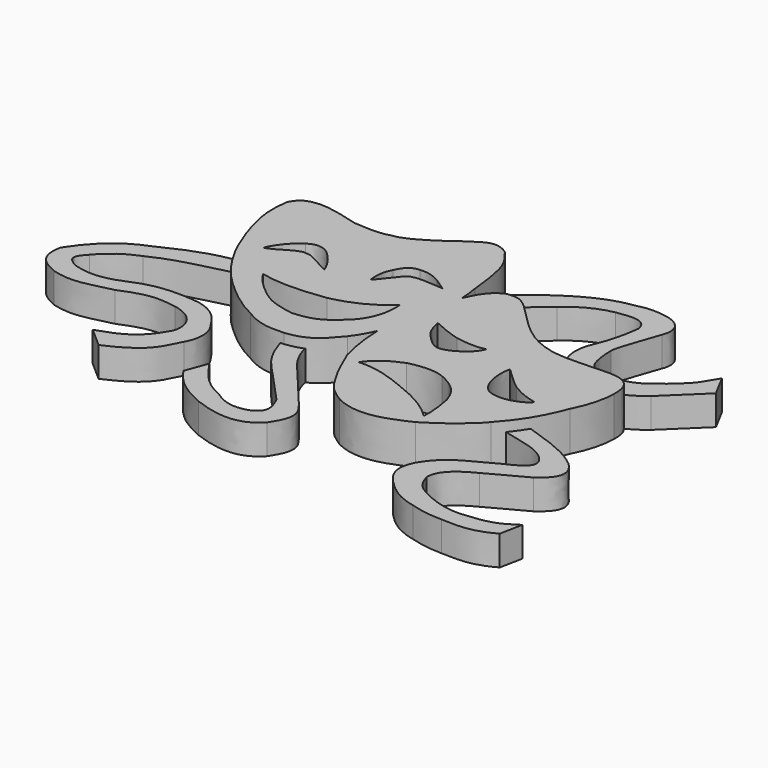
from build123d import *

# Parameters (mm, degrees)
F4_DEPTH  = 8
F5_DEPTH  = 25
F6_DEPTH  = 8
F7_DEPTH  = 25
F12_DEPTH = 6
F13_DEPTH = 6
F14_DEPTH = 6
F15_DEPTH = 6


with BuildPart() as f4:
    # F0 (on Top) → F4 (new body)
    with BuildSketch(Plane.XY):
        with BuildLine():
            add(Edge.make_bspline(
                [(-36.353413, 12.887898), (-34.226887, 12.887898), (-32.0509, 12.343901), (-28.292375, 11.305363)],
                knots=[0, 0, 0, 0, 8.214911, 8.214911, 8.214911, 8.214911], degree=3))
            add(Edge.make_bspline(
                [(-36.353413, 12.887898), (-37.639227, 12.690082), (-39.815206, 12.937352), (-41.051559, 10.118461)],
                knots=[0, 0, 0, 0, 5.453655, 5.453655, 5.453655, 5.453655], degree=3))
            add(Edge.make_bspline(
                [(-40.655926, 2.255242), (-40.853746, 2.848694), (-41.645013, 5.717038), (-41.051559, 10.118461)],
                knots=[0, 0, 0, 0, 7.873166, 7.873166, 7.873166, 7.873166], degree=3))
            add(Edge.make_bspline(
                [(-36.847953, -8.080687), (-37.58977, -6.695969), (-39.518487, -2.541816), (-40.655926, 2.255242)],
                knots=[0, 0, 0, 0, 11.015085, 11.015085, 11.015085, 11.015085], degree=3))
            add(Edge.make_bspline(
                [(-30.270543, -16.834082), (-32.001447, -15.301001), (-34.27634, -12.82829), (-36.847953, -8.080687)],
                knots=[0, 0, 0, 0, 10.949166, 10.949166, 10.949166, 10.949166], degree=3))
            add(Edge.make_bspline(
                [(-21.863328, -22.91695), (-24.385499, -21.730049), (-27.154934, -19.75188), (-30.270543, -16.834082)],
                knots=[0, 0, 0, 0, 10.37702, 10.37702, 10.37702, 10.37702], degree=3))
            add(Edge.make_bspline(
                [(-13.55502, -24.845663), (-16.472824, -24.994025), (-18.797172, -24.845663), (-21.863328, -22.91695)],
                knots=[0, 0, 0, 0, 8.529239, 8.529239, 8.529239, 8.529239], degree=3))
            add(Edge.make_bspline(
                [(-5.048897, -19.554064), (-7.175434, -22.076229), (-8.807423, -24.351122), (-13.55502, -24.845663)],
                knots=[0, 0, 0, 0, 10.017742, 10.017742, 10.017742, 10.017742], degree=3))
            add(Edge.make_bspline(
                [(-0.598017, -9.663222), (-1.686017, -13.372288), (-2.724555, -16.537357), (-5.048897, -19.554064)],
                knots=[0, 0, 0, 0, 10.846155, 10.846155, 10.846155, 10.846155], degree=3))
            add(Edge.make_bspline(
                [(0.489975, 5.717037), (1.33069, 0.623252), (1.083419, -4.470531), (-0.598017, -9.663222)],
                knots=[0, 0, 0, 0, 15.418693, 15.418693, 15.418693, 15.418693], degree=3))
            add(Edge.make_bspline(
                [(-3.614725, 18.32786), (-1.043113, 15.162789), (-0.400208, 14.173705), (0.489975, 5.717037)],
                knots=[0, 0, 0, 0, 13.26203, 13.26203, 13.26203, 13.26203], degree=3))
            add(Edge.make_bspline(
                [(-10.983402, 17.140958), (-8.807424, 18.426768), (-6.829255, 20.751115), (-3.614725, 18.32786)],
                knots=[0, 0, 0, 0, 7.463654, 7.463654, 7.463654, 7.463654], degree=3))
            add(Edge.make_bspline(
                [(-21.022612, 11.602088), (-19.04445, 11.799905), (-15.928829, 13.431893), (-10.983402, 17.140958)],
                knots=[0, 0, 0, 0, 11.465811, 11.465811, 11.465811, 11.465811], degree=3))
            add(Edge.make_bspline(
                [(-28.292375, 11.305363), (-25.968034, 11.157), (-23.49533, 10.860275), (-21.022612, 11.602088)],
                knots=[0, 0, 0, 0, 7.275816, 7.275816, 7.275816, 7.275816], degree=3))
        make_face()
    extrude(amount=F4_DEPTH)

    # F1 (on Top) → F5 (cut)
    with BuildSketch(Plane.XY):
        with BuildLine():
            add(Edge.make_bspline(
                [(-34.225449, -4.194234), (-32.897219, -1.184429), (-30.436402, 0.784399), (-29.890651, 0.987034)],
                knots=[0, 0, 0, 0, 6.755443, 6.755443, 6.755443, 6.755443], degree=3))
            add(Edge.make_bspline(
                [(-27.748821, -1.506653), (-29.467111, -1.110125), (-32.324456, -3.916068), (-34.225449, -4.194234)],
                knots=[0, 0, 0, 0, 7.012118, 7.012118, 7.012118, 7.012118], degree=3))
            add(Edge.make_bspline(
                [(-22.065248, -4.106116), (-24.44442, -2.96059), (-26.559237, -1.330419), (-27.748821, -1.506653)],
                knots=[0, 0, 0, 0, 6.249817, 6.249817, 6.249817, 6.249817], degree=3))
            add(Edge.make_bspline(
                [(-25.105298, 0.387871), (-23.695422, -0.889832), (-22.461779, -2.784355), (-22.065248, -4.106116)],
                knots=[0, 0, 0, 0, 5.425663, 5.425663, 5.425663, 5.425663], degree=3))
            add(Edge.make_bspline(
                [(-29.890651, 0.987034), (-27.660705, 2.634864), (-25.545888, 0.960633), (-25.105298, 0.387871)],
                knots=[0, 0, 0, 0, 4.822717, 4.822717, 4.822717, 4.822717], degree=3))
        make_face()
        with BuildLine():
            add(Edge.make_bspline(
                [(-14.222801, -2.123474), (-14.443098, -1.28636), (-14.443098, 0.960634), (-13.517861, 2.546747)],
                knots=[0, 0, 0, 0, 4.723124, 4.723124, 4.723124, 4.723124], degree=3))
            add(Edge.make_bspline(
                [(-9.816932, 2.546747), (-11.094637, 2.41457), (-13.165396, -1.506653), (-14.222801, -2.123474)],
                knots=[0, 0, 0, 0, 6.420487, 6.420487, 6.420487, 6.420487], degree=3))
            add(Edge.make_bspline(
                [(-3.560597, 2.546747), (-5.646042, 2.546747), (-7.922412, 3.119509), (-9.816932, 2.546747)],
                knots=[0, 0, 0, 0, 6.256334, 6.256334, 6.256334, 6.256334], degree=3))
            add(Edge.make_bspline(
                [(-5.939767, 4.176918), (-5.058596, 3.604155), (-4.353654, 3.090137), (-3.560597, 2.546747)],
                knots=[0, 0, 0, 0, 2.884079, 2.884079, 2.884079, 2.884079], degree=3))
            add(Edge.make_bspline(
                [(-10.257519, 5.234327), (-8.803586, 5.45462), (-7.217472, 4.925916), (-5.939767, 4.176918)],
                knots=[0, 0, 0, 0, 4.445345, 4.445345, 4.445345, 4.445345], degree=3))
            add(Edge.make_bspline(
                [(-13.517861, 2.546747), (-12.504515, 4.925916), (-11.182754, 5.234326), (-10.257519, 5.234327)],
                knots=[0, 0, 0, 0, 4.225271, 4.225271, 4.225271, 4.225271], degree=3))
        make_face()
        with BuildLine():
            add(Edge.make_bspline(
                [(-28.629998, -11.287683), (-24.31225, -12.212915), (-20.214787, -11.948563), (-15.720798, -11.331741)],
                knots=[0, 0, 0, 0, 12.909275, 12.909275, 12.909275, 12.909275], degree=3))
            add(Edge.make_bspline(
                [(-24.18007, -16.001962), (-26.471121, -14.151498), (-27.836941, -12.697561), (-28.629998, -11.287683)],
                knots=[0, 0, 0, 0, 6.482769, 6.482769, 6.482769, 6.482769], degree=3))
            add(Edge.make_bspline(
                [(-16.866326, -18.821718), (-21.272196, -18.072721), (-22.329608, -17.36778), (-24.18007, -16.001962)],
                knots=[0, 0, 0, 0, 7.838486, 7.838486, 7.838486, 7.838486], degree=3))
            add(Edge.make_bspline(
                [(-8.274878, -14.812378), (-11.35899, -17.852427), (-13.07728, -18.557366), (-16.866326, -18.821718)],
                knots=[0, 0, 0, 0, 9.480917, 9.480917, 9.480917, 9.480917], degree=3))
            add(Edge.make_bspline(
                [(-5.23483, -6.132815), (-4.882364, -11.199565), (-7.30559, -13.975263), (-8.274878, -14.812378)],
                knots=[0, 0, 0, 0, 9.196559, 9.196559, 9.196559, 9.196559], degree=3))
            add(Edge.make_bspline(
                [(-15.720798, -11.331741), (-10.786228, -10.230274), (-8.142706, -8.511985), (-5.23483, -6.132815)],
                knots=[0, 0, 0, 0, 11.704031, 11.704031, 11.704031, 11.704031], degree=3))
        make_face()
    extrude(amount=F5_DEPTH, mode=Mode.SUBTRACT)

    # F2 (on Top) → F6 (join)
    with BuildSketch(Plane.XY):
        with BuildLine():
            add(Edge.make_bspline(
                [(10.116547, 5.907975), (8.754268, 7.060659), (7.863554, 7.741793), (5.505784, 7.375029)],
                knots=[0, 0, 0, 0, 4.838531, 4.838531, 4.838531, 4.838531], degree=3))
            add(Edge.make_bspline(
                [(5.505784, 7.375029), (2.519274, 6.22234), (1.314202, 2.76428), (0.421101, 0.666883)],
                knots=[0, 0, 0, 0, 8.417435, 8.417435, 8.417435, 8.417435], degree=3))
            add(Edge.make_bspline(
                [(0.421101, 0.666883), (-1.567518, -3.261134), (-2.091467, -9.076969), (-2.354422, -11.378889)],
                knots=[0, 0, 0, 0, 12.361398, 12.361398, 12.361398, 12.361398], degree=3))
            add(Edge.make_bspline(
                [(-2.354422, -11.378889), (-2.824995, -16.359862), (-2.091466, -20.761034), (-1.133192, -24.423851)],
                knots=[0, 0, 0, 0, 13.102001, 13.102001, 13.102001, 13.102001], degree=3))
            add(Edge.make_bspline(
                [(-1.133192, -24.423851), (-0.004479, -26.792298), (0.633069, -28.829848), (2.252947, -31.529192)],
                knots=[0, 0, 0, 0, 7.870947, 7.870947, 7.870947, 7.870947], degree=3))
            add(Edge.make_bspline(
                [(2.252947, -31.529192), (4.195923, -35.117239), (5.401005, -35.693586), (7.359911, -37.024729)],
                knots=[0, 0, 0, 0, 7.502134, 7.502134, 7.502134, 7.502134], degree=3))
            add(Edge.make_bspline(
                [(7.359911, -37.024729), (13.312635, -40.094756), (18.971287, -36.793876), (21.591032, -35.693586)],
                knots=[0, 0, 0, 0, 14.293241, 14.293241, 14.293241, 14.293241], degree=3))
            add(Edge.make_bspline(
                [(21.591032, -35.693586), (26.201783, -33.021443), (30.340979, -29.14422), (30.840838, -28.254075)],
                knots=[0, 0, 0, 0, 11.870351, 11.870351, 11.870351, 11.870351], degree=3))
            add(Edge.make_bspline(
                [(30.840838, -28.254075), (35.004124, -23.852337), (36.680762, -19.660745), (37.72866, -16.9886)],
                knots=[0, 0, 0, 0, 13.20428, 13.20428, 13.20428, 13.20428], degree=3))
            add(Edge.make_bspline(
                [(37.72866, -16.9886), (39.195716, -14.211675), (39.981641, -11.067981), (39.981645, -8.657809)],
                knots=[0, 0, 0, 0, 8.630064, 8.630064, 8.630064, 8.630064], degree=3))
            add(Edge.make_bspline(
                [(39.981645, -8.657809), (40.243611, -3.156349), (35.790041, -3.732692), (34.846932, -3.575508)],
                knots=[0, 0, 0, 0, 7.224615, 7.224615, 7.224615, 7.224615], degree=3))
            add(Edge.make_bspline(
                [(34.846932, -3.575508), (31.039568, -3.575508), (27.35446, -4.099457), (23.739221, -3.575508)],
                knots=[0, 0, 0, 0, 11.107711, 11.107711, 11.107711, 11.107711], degree=3))
            add(Edge.make_bspline(
                [(23.739221, -3.575508), (19.33804, -2.632399), (17.189849, -0.850972), (14.936878, 1.140038)],
                knots=[0, 0, 0, 0, 9.98587, 9.98587, 9.98587, 9.98587], degree=3))
            add(Edge.make_bspline(
                [(14.936878, 1.140038), (13.330101, 2.729351), (11.723324, 4.318663), (10.116547, 5.907975)],
                knots=[0, 0, 0, 0, 6.78003, 6.78003, 6.78003, 6.78003], degree=3))
        make_face()
    extrude(amount=F6_DEPTH)

    # F3 (on Top) → F7 (cut)
    with BuildSketch(Plane.XY):
        with BuildLine():
            add(Edge.make_bspline(
                [(3.222382, -7.111744), (4.55313, -7.735532), (7.089868, -8.816765), (8.836474, -9.232623)],
                knots=[0, 0, 0, 0, 6.001346, 6.001346, 6.001346, 6.001346], degree=3))
            add(Edge.make_bspline(
                [(6.507666, -12.68425), (4.222151, -10.555603), (3.855848, -9.833884), (3.222382, -7.111744)],
                knots=[0, 0, 0, 0, 6.468842, 6.468842, 6.468842, 6.468842], degree=3))
            add(Edge.make_bspline(
                [(10.739904, -13.204032), (9.335505, -13.68231), (8.386593, -14.332594), (6.507666, -12.68425)],
                knots=[0, 0, 0, 0, 4.264037, 4.264037, 4.264037, 4.264037], degree=3))
            add(Edge.make_bspline(
                [(14.796356, -9.357397), (14.40898, -10.563371), (13.20299, -11.97729), (10.739904, -13.204032)],
                knots=[0, 0, 0, 0, 5.590295, 5.590295, 5.590295, 5.590295], degree=3))
            add(Edge.make_bspline(
                [(8.836474, -9.232623), (11.290041, -9.648481), (12.828717, -9.773239), (14.796356, -9.357397)],
                knots=[0, 0, 0, 0, 5.961187, 5.961187, 5.961187, 5.961187], degree=3))
        make_face()
        with BuildLine():
            add(Edge.make_bspline(
                [(27.035646, -20.827362), (29.130377, -20.62715), (31.001741, -19.83702), (32.001302, -18.65926)],
                knots=[0, 0, 0, 0, 5.418339, 5.418339, 5.418339, 5.418339], degree=3))
            add(Edge.make_bspline(
                [(32.001302, -18.65926), (29.587822, -18.131999), (28.09073, -17.425038), (26.546076, -16.421217)],
                knots=[0, 0, 0, 0, 5.896467, 5.896467, 5.896467, 5.896467], degree=3))
            add(Edge.make_bspline(
                [(26.546076, -16.421217), (24.847033, -15.220988), (23.446324, -13.633775), (21.977609, -12.351563)],
                knots=[0, 0, 0, 0, 6.118249, 6.118249, 6.118249, 6.118249], degree=3))
            add(Edge.make_bspline(
                [(21.977609, -12.351563), (21.399427, -14.582111), (21.977609, -17.549796), (22.76938, -18.799137)],
                knots=[0, 0, 0, 0, 6.496008, 6.496008, 6.496008, 6.496008], degree=3))
            add(Edge.make_bspline(
                [(22.76938, -18.799137), (23.807386, -20.710323), (25.429236, -20.793494), (27.035646, -20.827362)],
                knots=[0, 0, 0, 0, 4.723846, 4.723846, 4.723846, 4.723846], degree=3))
        make_face()
        with BuildLine():
            add(Edge.make_bspline(
                [(1.857675, -25.303448), (3.887758, -22.456927), (6.424495, -21.458866), (7.942352, -20.827362)],
                knots=[0, 0, 0, 0, 7.553716, 7.553716, 7.553716, 7.553716], degree=3))
            add(Edge.make_bspline(
                [(11.928865, -27.611427), (8.420617, -26.116485), (5.17692, -25.118424), (1.857675, -25.303448)],
                knots=[0, 0, 0, 0, 10.332261, 10.332261, 10.332261, 10.332261], degree=3))
            add(Edge.make_bspline(
                [(21.300664, -33.206534), (18.401224, -30.358242), (15.157527, -28.861152), (11.928865, -27.611427)],
                knots=[0, 0, 0, 0, 10.914937, 10.914937, 10.914937, 10.914937], degree=3))
            add(Edge.make_bspline(
                [(20.688446, -26.657101), (21.436993, -30.441415), (21.35382, -31.855334), (21.300664, -33.206534)],
                knots=[0, 0, 0, 0, 6.577985, 6.577985, 6.577985, 6.577985], degree=3))
            add(Edge.make_bspline(
                [(15.074355, -20.835079), (19.232942, -22.664858), (20.023072, -24.785737), (20.688446, -26.657101)],
                knots=[0, 0, 0, 0, 8.08789, 8.08789, 8.08789, 8.08789], degree=3))
            add(Edge.make_bspline(
                [(7.942352, -20.827362), (11.331627, -19.961776), (13.647334, -20.260595), (15.074355, -20.835079)],
                knots=[0, 0, 0, 0, 7.132007, 7.132007, 7.132007, 7.132007], degree=3))
        make_face()
    extrude(amount=F7_DEPTH, mode=Mode.SUBTRACT)

    # F8 (on Top) → F12 (join)
    with BuildSketch(Plane.XY):
        with BuildLine():
            add(Edge.make_bspline(
                [(33.794507, -22.825694), (40.929485, -25.122019), (43.992575, -26.361842), (46.724308, -28.608367)],
                knots=[0, 0, 0, 0, 14.164006, 14.164006, 14.164006, 14.164006], degree=3))
            add(Edge.make_bspline(
                [(33.794507, -22.825694), (33.123111, -23.951907), (32.451714, -25.078121), (31.780317, -26.204335)],
                knots=[0, 0, 0, 0, 3.933469, 3.933469, 3.933469, 3.933469], degree=3))
            add(Edge.make_bspline(
                [(31.780317, -26.204335), (35.050669, -27.352206), (38.737178, -27.364315), (41.591372, -29.64795)],
                knots=[0, 0, 0, 0, 10.39785, 10.39785, 10.39785, 10.39785], degree=3))
            add(Edge.make_bspline(
                [(41.591372, -29.64795), (43.37322, -31.382218), (44.068627, -32.927565), (38.797498, -35.235703)],
                knots=[0, 0, 0, 0, 6.247297, 6.247297, 6.247297, 6.247297], degree=3))
            add(Edge.make_bspline(
                [(38.797498, -35.235703), (36.826624, -36.296941), (34.855751, -37.35818), (32.884877, -38.419418)],
                knots=[0, 0, 0, 0, 6.71529, 6.71529, 6.71529, 6.71529], degree=3))
            add(Edge.make_bspline(
                [(32.884877, -38.419418), (30.865049, -39.635234), (29.260574, -41.020915), (27.751941, -43.61733)],
                knots=[0, 0, 0, 0, 7.305157, 7.305157, 7.305157, 7.305157], degree=3))
            add(Edge.make_bspline(
                [(27.751941, -43.61733), (26.926791, -45.46969), (26.197486, -47.803473), (29.181363, -50.764456)],
                knots=[0, 0, 0, 0, 7.288666, 7.288666, 7.288666, 7.288666], degree=3))
            add(Edge.make_bspline(
                [(29.181363, -50.764456), (30.937981, -52.616898), (33.05297, -54.294303), (36.588386, -55.052731)],
                knots=[0, 0, 0, 0, 8.558813, 8.558813, 8.558813, 8.558813], degree=3))
            add(Edge.make_bspline(
                [(36.588386, -55.052731), (38.960356, -55.752918), (40.564831, -55.971712), (43.150749, -56.027338)],
                knots=[0, 0, 0, 0, 6.63434, 6.63434, 6.63434, 6.63434], degree=3))
            add(Edge.make_bspline(
                [(43.150749, -56.027338), (45.52412, -55.971712), (48.58721, -56.701016), (53.286672, -54.078124)],
                knots=[0, 0, 0, 0, 10.321645, 10.321645, 10.321645, 10.321645], degree=3))
            add(Edge.make_bspline(
                [(53.286672, -54.078124), (53.589883, -52.562067), (53.893094, -51.046009), (54.196306, -49.529951)],
                knots=[0, 0, 0, 0, 4.638245, 4.638245, 4.638245, 4.638245], degree=3))
            add(Edge.make_bspline(
                [(54.196306, -49.529951), (52.379604, -50.647769), (50.993923, -51.88759), (47.309075, -52.323829)],
                knots=[0, 0, 0, 0, 7.432342, 7.432342, 7.432342, 7.432342], degree=3))
            add(Edge.make_bspline(
                [(47.309075, -52.323829), (43.846712, -52.835692), (41.439999, -52.981552), (37.238128, -51.219273)],
                knots=[0, 0, 0, 0, 10.131337, 10.131337, 10.131337, 10.131337], degree=3))
            add(Edge.make_bspline(
                [(37.238128, -51.219273), (34.803305, -49.918462), (33.34469, -49.772602), (32.235138, -46.15131)],
                knots=[0, 0, 0, 0, 7.121388, 7.121388, 7.121388, 7.121388], degree=3))
            add(Edge.make_bspline(
                [(32.235138, -46.15131), (32.323662, -44.448659), (32.90711, -42.47953), (37.887864, -39.913818)],
                knots=[0, 0, 0, 0, 8.417815, 8.417815, 8.417815, 8.417815], degree=3))
            add(Edge.make_bspline(
                [(37.887864, -39.913818), (40.486818, -38.506051), (42.852237, -37.250603), (45.45119, -35.842836)],
                knots=[0, 0, 0, 0, 8.589343, 8.589343, 8.589343, 8.589343], degree=3))
            add(Edge.make_bspline(
                [(45.45119, -35.842836), (46.326358, -35.040598), (50.920989, -32.488022), (46.724308, -28.608367)],
                knots=[0, 0, 0, 0, 7.345636, 7.345636, 7.345636, 7.345636], degree=3))
        make_face()
    extrude(amount=F12_DEPTH)

    # F9 (on Top) → F13 (join)
    with BuildSketch(Plane.XY):
        with BuildLine():
            add(Edge.make_bspline(
                [(-35.876021, -6.889651), (-35.372177, -8.104878), (-34.868332, -9.320104), (-34.364488, -10.535331)],
                knots=[0, 0, 0, 0, 3.946609, 3.946609, 3.946609, 3.946609], degree=3))
            add(Edge.make_bspline(
                [(-50.799288, -11.88519), (-46.018463, -9.564086), (-42.228889, -7.82303), (-35.876021, -6.889651)],
                knots=[0, 0, 0, 0, 15.737195, 15.737195, 15.737195, 15.737195], degree=3))
            add(Edge.make_bspline(
                [(-61.530951, -21.102374), (-59.138022, -17.394455), (-55.929415, -13.859313), (-50.799288, -11.88519)],
                knots=[0, 0, 0, 0, 14.146557, 14.146557, 14.146557, 14.146557], degree=3))
            add(Edge.make_bspline(
                [(-57.400268, -27.987242), (-59.497185, -27.005369), (-62.584423, -25.677226), (-61.530951, -21.102374)],
                knots=[0, 0, 0, 0, 8.028944, 8.028944, 8.028944, 8.028944], degree=3))
            add(Edge.make_bspline(
                [(-45.802679, -27.048029), (-50.115865, -27.921248), (-52.506506, -29.31338), (-57.400268, -27.987242)],
                knots=[0, 0, 0, 0, 11.635557, 11.635557, 11.635557, 11.635557], degree=3))
            add(Edge.make_bspline(
                [(-35.020359, -25.530774), (-38.225066, -25.12908), (-39.914463, -24.552012), (-45.802679, -27.048029)],
                knots=[0, 0, 0, 0, 10.888548, 10.888548, 10.888548, 10.888548], degree=3))
            add(Edge.make_bspline(
                [(-30.307041, -32.530785), (-29.548727, -31.777315), (-28.727951, -26.79746), (-35.020359, -25.530774)],
                knots=[0, 0, 0, 0, 8.438928, 8.438928, 8.438928, 8.438928], degree=3))
            add(Edge.make_bspline(
                [(-40.104423, -39.836403), (-37.422758, -38.791325), (-33.226289, -38.09192), (-30.307041, -32.530785)],
                knots=[0, 0, 0, 0, 12.221323, 12.221323, 12.221323, 12.221323], degree=3))
            add(Edge.make_bspline(
                [(-36.14518, -43.30568), (-37.464928, -42.149254), (-38.784675, -40.992829), (-40.104423, -39.836403)],
                knots=[0, 0, 0, 0, 5.26417, 5.26417, 5.26417, 5.26417], degree=3))
            add(Edge.make_bspline(
                [(-26.345907, -34.089535), (-28.214432, -37.854768), (-28.974297, -40.171396), (-36.14518, -43.30568)],
                knots=[0, 0, 0, 0, 13.452252, 13.452252, 13.452252, 13.452252], degree=3))
            add(Edge.make_bspline(
                [(-26.921201, -26.56387), (-25.873527, -27.836388), (-24.361022, -30.49786), (-26.345907, -34.089535)],
                knots=[0, 0, 0, 0, 7.547623, 7.547623, 7.547623, 7.547623], degree=3))
            add(Edge.make_bspline(
                [(-32.977361, -22.112718), (-31.287804, -22.516103), (-28.899224, -23.208184), (-26.921201, -26.56387)],
                knots=[0, 0, 0, 0, 7.515971, 7.515971, 7.515971, 7.515971], degree=3))
            add(Edge.make_bspline(
                [(-46.615314, -23.806833), (-42.475972, -21.949602), (-39.037246, -21.424726), (-32.977361, -22.112718)],
                knots=[0, 0, 0, 0, 13.742772, 13.742772, 13.742772, 13.742772], degree=3))
            add(Edge.make_bspline(
                [(-55.823356, -24.453916), (-53.434778, -25.145998), (-50.521381, -25.490126), (-46.615314, -23.806833)],
                knots=[0, 0, 0, 0, 9.230751, 9.230751, 9.230751, 9.230751], degree=3))
            add(Edge.make_bspline(
                [(-56.460131, -20.17042), (-57.743665, -21.677112), (-59.085071, -22.778602), (-55.823356, -24.453916)],
                knots=[0, 0, 0, 0, 4.330567, 4.330567, 4.330567, 4.330567], degree=3))
            add(Edge.make_bspline(
                [(-49.637172, -15.299681), (-52.318893, -16.402666), (-54.126501, -17.504673), (-56.460131, -20.17042)],
                knots=[0, 0, 0, 0, 8.38313, 8.38313, 8.38313, 8.38313], degree=3))
            add(Edge.make_bspline(
                [(-34.364488, -10.535331), (-39.455383, -12.123448), (-43.632001, -12.398272), (-49.637172, -15.299681)],
                knots=[0, 0, 0, 0, 15.99856, 15.99856, 15.99856, 15.99856], degree=3))
        make_face()
    extrude(amount=F13_DEPTH)

    # F10 (on Top) → F14 (join)
    with BuildSketch(Plane.XY):
        with BuildLine():
            add(Edge.make_bspline(
                [(11.057653, 15.857253), (6.622519, 12.988853), (3.022478, 10.57774), (-0.8414, 4.728244)],
                knots=[0, 0, 0, 0, 16.2924, 16.2924, 16.2924, 16.2924], degree=3))
            add(Edge.make_bspline(
                [(-0.8414, 4.728244), (-1.057348, 2.431516), (-1.273296, 0.134789), (-1.489244, -2.161939)],
                knots=[0, 0, 0, 0, 6.920573, 6.920573, 6.920573, 6.920573], degree=3))
            add(Edge.make_bspline(
                [(-1.489244, -2.161939), (2.280676, 2.917933), (6.470113, 7.372097), (12.044369, 11.863619)],
                knots=[0, 0, 0, 0, 19.490381, 19.490381, 19.490381, 19.490381], degree=3))
            add(Edge.make_bspline(
                [(12.044369, 11.863619), (14.332721, 13.945684), (17.197752, 15.55361), (20.440174, 16.157161)],
                knots=[0, 0, 0, 0, 9.429955, 9.429955, 9.429955, 9.429955], degree=3))
            add(Edge.make_bspline(
                [(20.440174, 16.157161), (24.761546, 16.947934), (26.15598, 16.365943), (26.731899, 14.195742)],
                knots=[0, 0, 0, 0, 6.590369, 6.590369, 6.590369, 6.590369], degree=3))
            add(Edge.make_bspline(
                [(26.731899, 14.195742), (26.444538, 11.187335), (25.560083, 7.758045), (23.983011, 4.119015)],
                knots=[0, 0, 0, 0, 10.444942, 10.444942, 10.444942, 10.444942], degree=3))
            add(Edge.make_bspline(
                [(23.983011, 4.119015), (23.351151, 1.409574), (23.715803, -1.070072), (26.073446, -3.404963)],
                knots=[0, 0, 0, 0, 7.80898, 7.80898, 7.80898, 7.80898], degree=3))
            add(Edge.make_bspline(
                [(26.073446, -3.404963), (27.530186, -4.640021), (29.437991, -5.804982), (32.247648, -6.350723)],
                knots=[0, 0, 0, 0, 6.840925, 6.840925, 6.840925, 6.840925], degree=3))
            add(Edge.make_bspline(
                [(32.247648, -6.350723), (34.870539, -6.455423), (38.835954, -5.794528), (42.565946, -2.633988)],
                knots=[0, 0, 0, 0, 10.967287, 10.967287, 10.967287, 10.967287], degree=3))
            add(Edge.make_bspline(
                [(42.565946, -2.633988), (45.03526, -0.257561), (47.504575, 2.118866), (49.97389, 4.495293)],
                knots=[0, 0, 0, 0, 10.28126, 10.28126, 10.28126, 10.28126], degree=3))
            add(Edge.make_bspline(
                [(49.97389, 4.495293), (49.159553, 6.018947), (48.345216, 7.5426), (47.530878, 9.066253)],
                knots=[0, 0, 0, 0, 5.182854, 5.182854, 5.182854, 5.182854], degree=3))
            add(Edge.make_bspline(
                [(47.530878, 9.066253), (45.234468, 5.153992), (45.234468, 5.153992), (41.92974, 2.228455)],
                knots=[0, 0, 0, 0, 8.839017, 8.839017, 8.839017, 8.839017], degree=3))
            add(Edge.make_bspline(
                [(41.92974, 2.228455), (39.943922, 0.917431), (37.958577, -2.075427), (31.553335, -1.31466)],
                knots=[0, 0, 0, 0, 10.964645, 10.964645, 10.964645, 10.964645], degree=3))
            add(Edge.make_bspline(
                [(31.553335, -1.31466), (29.73688, -0.552776), (28.267799, -1.210894), (28.005345, 5.512962)],
                knots=[0, 0, 0, 0, 7.694457, 7.694457, 7.694457, 7.694457], degree=3))
            add(Edge.make_bspline(
                [(28.005345, 5.512962), (28.05577, 7.104336), (29.915101, 11.690515), (30.869979, 14.779291)],
                knots=[0, 0, 0, 0, 9.69902, 9.69902, 9.69902, 9.69902], degree=3))
            add(Edge.make_bspline(
                [(30.869979, 14.779291), (31.662744, 16.517954), (31.8872, 20.74888), (23.474589, 20.328952)],
                knots=[0, 0, 0, 0, 9.246109, 9.246109, 9.246109, 9.246109], degree=3))
            add(Edge.make_bspline(
                [(23.474589, 20.328952), (19.55129, 19.641018), (16.687561, 19.346062), (11.057653, 15.857253)],
                knots=[0, 0, 0, 0, 13.197591, 13.197591, 13.197591, 13.197591], degree=3))
        make_face()
    extrude(amount=F14_DEPTH)

    # F11 (on Top) → F15 (join)
    with BuildSketch(Plane.XY):
        with BuildLine():
            add(Edge.make_bspline(
                [(-10.038858, -22.542786), (-11.642346, -22.605838), (-13.245833, -22.668889), (-14.849321, -22.731941)],
                knots=[0, 0, 0, 0, 4.81418, 4.81418, 4.81418, 4.81418], degree=3))
            add(Edge.make_bspline(
                [(-14.849321, -22.731941), (-13.191049, -29.622748), (-11.065063, -31.27462), (-8.570057, -33.937003)],
                knots=[0, 0, 0, 0, 12.844554, 12.844554, 12.844554, 12.844554], degree=3))
            add(Edge.make_bspline(
                [(-8.570057, -33.937003), (-6.598733, -36.079192), (-4.627408, -38.22138), (-2.656083, -40.363569)],
                knots=[0, 0, 0, 0, 8.733604, 8.733604, 8.733604, 8.733604], degree=3))
            add(Edge.make_bspline(
                [(-2.656083, -40.363569), (-0.809707, -44.129495), (-2.012913, -44.774149), (-3.401404, -45.694713)],
                knots=[0, 0, 0, 0, 5.382991, 5.382991, 5.382991, 5.382991], degree=3))
            add(Edge.make_bspline(
                [(-10.708329, -44.69192), (-8.119998, -46.52708), (-5.714949, -46.616308), (-3.401404, -45.694713)],
                knots=[0, 0, 0, 0, 7.375415, 7.375415, 7.375415, 7.375415], degree=3))
            add(Edge.make_bspline(
                [(-10.708329, -44.69192), (-14.776837, -42.950306), (-16.531892, -40.379003), (-18.564006, -37.348494)],
                knots=[0, 0, 0, 0, 10.753491, 10.753491, 10.753491, 10.753491], degree=3))
            add(Edge.make_bspline(
                [(-18.564006, -37.348494), (-19.120525, -38.85018), (-19.677044, -40.351865), (-20.233562, -41.853551)],
                knots=[0, 0, 0, 0, 4.804472, 4.804472, 4.804472, 4.804472], degree=3))
            add(Edge.make_bspline(
                [(-20.233562, -41.853551), (-17.739559, -45.526858), (-15.428197, -46.810914), (-11.925431, -48.452613)],
                knots=[0, 0, 0, 0, 10.610027, 10.610027, 10.610027, 10.610027], degree=3))
            add(Edge.make_bspline(
                [(-11.925431, -48.452613), (-3.96217, -51.485162), (-0.907308, -49.276117), (1.037217, -47.344014)],
                knots=[0, 0, 0, 0, 13.009967, 13.009967, 13.009967, 13.009967], degree=3))
            add(Edge.make_bspline(
                [(1.037217, -47.344014), (4.001758, -42.929418), (2.708047, -41.552328), (1.037217, -39.348632)],
                knots=[0, 0, 0, 0, 7.995382, 7.995382, 7.995382, 7.995382], degree=3))
            add(Edge.make_bspline(
                [(1.037217, -39.348632), (-1.393237, -36.441073), (-3.823692, -33.533514), (-6.254146, -30.625954)],
                knots=[0, 0, 0, 0, 11.368777, 11.368777, 11.368777, 11.368777], degree=3))
            add(Edge.make_bspline(
                [(-6.254146, -30.625954), (-8.472, -28.330872), (-10.226509, -25.208155), (-10.038858, -22.542786)],
                knots=[0, 0, 0, 0, 8.925338, 8.925338, 8.925338, 8.925338], degree=3))
        make_face()
    extrude(amount=F15_DEPTH)


solid = f4.part
